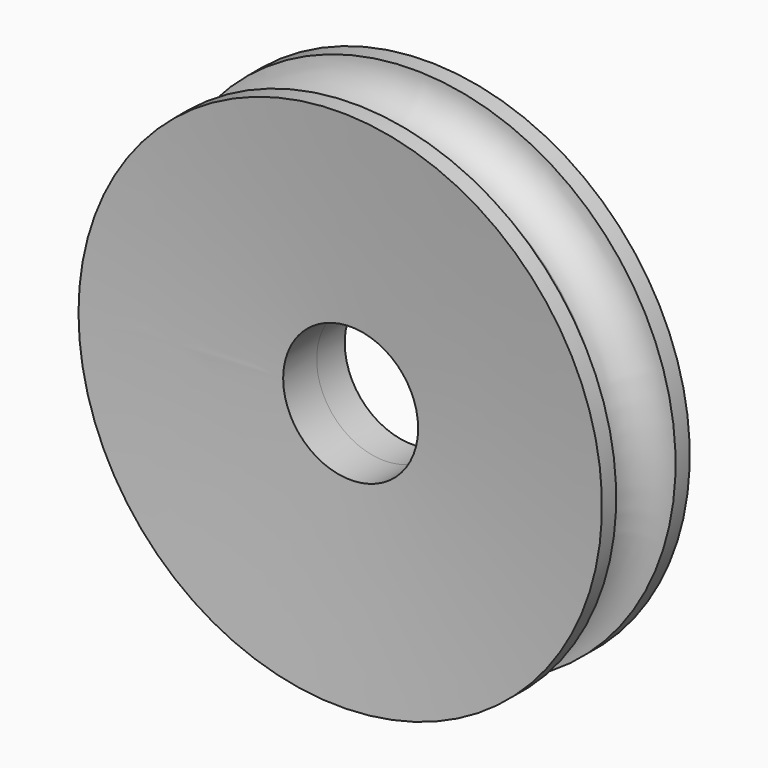
from build123d import *

# Parameters (mm, degrees)
F2_R          = 1
F3_DEPTH      = 9
F3_DEPTH_BACK = 10.2


with BuildPart() as f1:
    # F0 (on Top) → F1 (revolve)
    with BuildSketch(Plane.XY):
        with BuildLine():
            ThreePointArc((-3.3291771512, 0), (-3.4902684216, -0.3889087297), (-3.8791771512, -0.55))
            Line((-3.8791771512, -0.55), (-3.8791771512, -0.8130174247))
            add(Edge.make_bspline(
                [(-3.8791771512, -0.8130174247), (-3.3627895766, -0.7711625564), (-2.2360945011, -0.6798403088), (-0.7856667947, -0.6088802847), (0, -0.5704427022)],
                knots=[0, 0, 0, 0, 0.4583206103, 1, 1, 1, 1], degree=3))
            Line((0, -0.5704427022), (0, 0))
            Line((0, 0), (0, 0.55))
            add(Edge.make_bspline(
                [(-3.8791771512, 0.813), (-3.3637205638, 0.7051800282), (-2.2426051819, 0.4706721533), (-0.7865843545, 0.5221760908), (0, 0.55)],
                knots=[0, 0, 0, 0, 0.4597712206, 1, 1, 1, 1], degree=3))
            Line((-3.8791771512, 0.813), (-3.8791771512, 0.55))
            ThreePointArc((-3.8791771512, 0.55), (-3.4902684216, 0.3889087297), (-3.3291771512, 0))
        make_face()
    revolve(axis=Axis((0, 0.275, 0), (0, 1, 0)))

    # F2 (on Front) → F3 (cut, two sides)
    with BuildSketch(Plane.XZ) as f3_sk:
        Circle(F2_R)
    extrude(amount=-F3_DEPTH, mode=Mode.SUBTRACT)
    extrude(f3_sk.sketch, amount=F3_DEPTH_BACK, mode=Mode.SUBTRACT)


solid = f1.part
